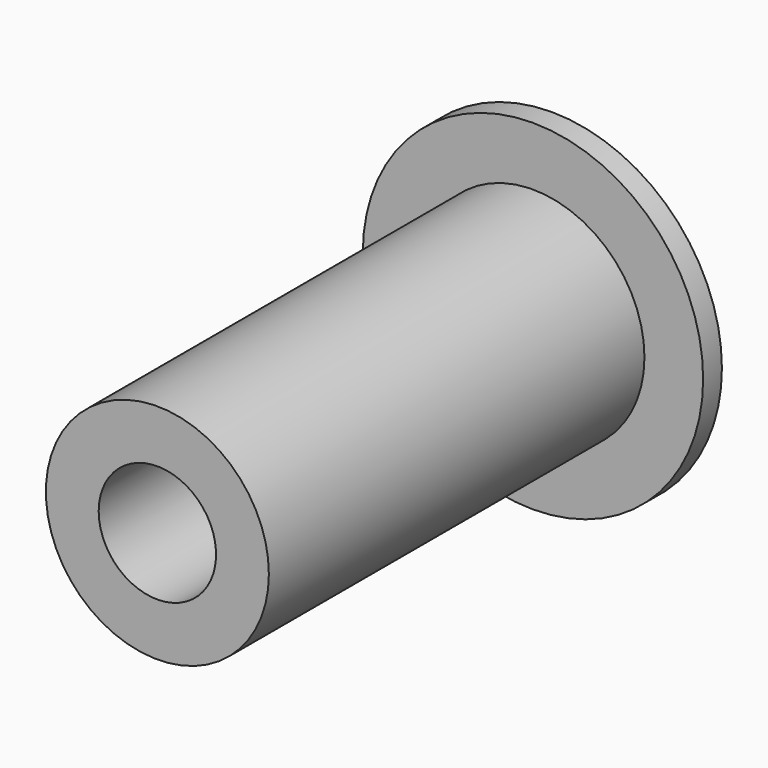
from build123d import *

# Parameters (mm, degrees)
F2_R     = 6.35
F3_DEPTH = 101.6


with BuildPart() as f1:
    # F0 (on Top) → F1 (revolve)
    with BuildSketch(Plane.XY):
        Polygon((0, 37.726658), (0, -15.613342), (12.065, -15.613342), (12.065, 35.186658), (18.415, 35.186658), (18.415, 37.726658), align=None)
    revolve(axis=Axis((0, 11.056658, 0), (0, -1, 0)))

    # F2 (on face) → F3 (cut)
    with BuildSketch(Plane(origin=(0, 37.726658, 0), x_dir=(-1, 0, 0), z_dir=(0, 1, 0))):
        Circle(F2_R)
    extrude(amount=-F3_DEPTH, mode=Mode.SUBTRACT)


solid = f1.part
